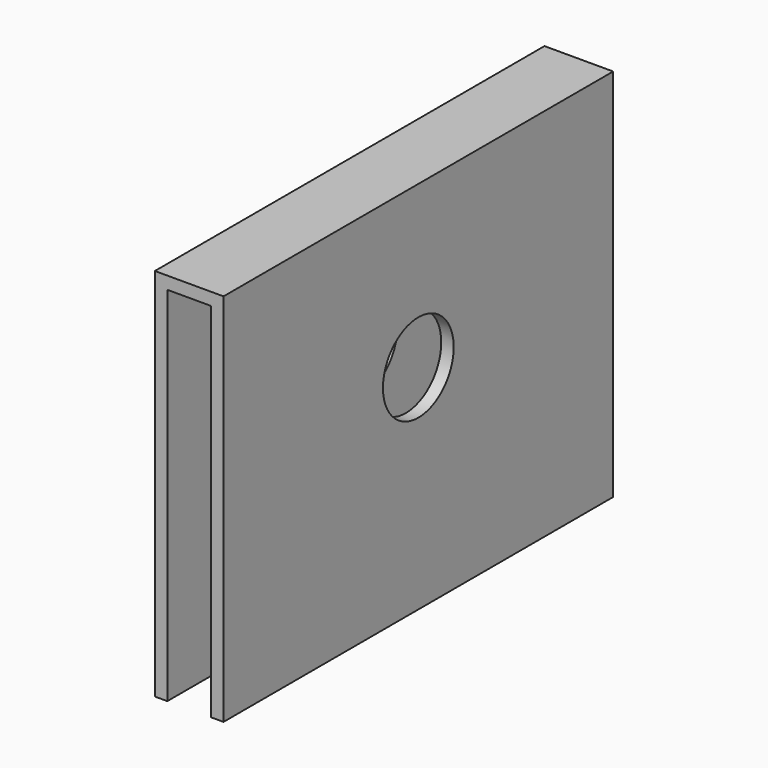
from build123d import *

# Parameters (mm, degrees)
F0_W     = 13.97
F0_H     = 99.06
F1_DEPTH = 76.2
F2_T     = -2.54
F3_R     = 8.994347
F4_DEPTH = 118.618


with BuildPart() as f1:
    # F0 (on Top) → F1 (new body)
    with BuildSketch(Plane.XY):
        Rectangle(F0_W, F0_H)
    extrude(amount=-F1_DEPTH)

    # F2
    f2_openings = [f1.faces().sort_by_distance(p)[0] for p in [
        (0, 0, -76.2),
        (0, 49.53, -38.1),
        (0, -49.53, -38.1),
    ]]
    offset(amount=F2_T, openings=f2_openings)

    # F3 (on face) → F4 (cut)
    with BuildSketch(Plane(origin=(-6.985, 0, 0), x_dir=(0, -1, 0), z_dir=(-1, 0, 0))):
        with Locations((0, -32.869287)):
            Circle(F3_R)
    extrude(amount=-F4_DEPTH, mode=Mode.SUBTRACT)


solid = f1.part
